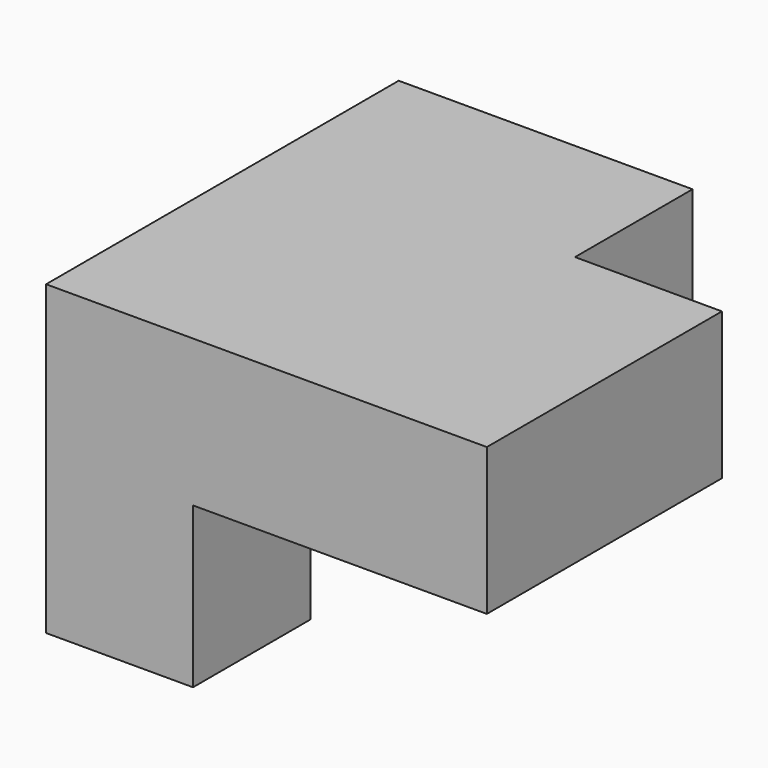
from build123d import *

# Parameters (mm, degrees)
F0_W     = 76.2
F0_H     = 76.2
F1_DEPTH = 25.4
F2_W     = 25.4
F2_H     = 25.4
F3_DEPTH = 25.4
F4_W     = 25.4
F4_H     = 25.4
F5_DEPTH = 27.686


with BuildPart() as f1:
    # F0 (on Top) → F1 (new body)
    with BuildSketch(Plane.XY):
        with Locations((38.1, 38.1)):
            Rectangle(F0_W, F0_H)
    extrude(amount=F1_DEPTH)

    # F2 (on face) → F3 (cut)
    with BuildSketch(Plane.XY.offset(25.4)):
        with Locations((63.5, 63.5)):
            Rectangle(F2_W, F2_H)
    extrude(amount=-F3_DEPTH, mode=Mode.SUBTRACT)

    # F4 (on Top) → F5 (join)
    with BuildSketch(Plane.XY):
        with Locations((12.7, 12.7)):
            Rectangle(F4_W, F4_H)
    extrude(amount=-F5_DEPTH)


solid = f1.part
